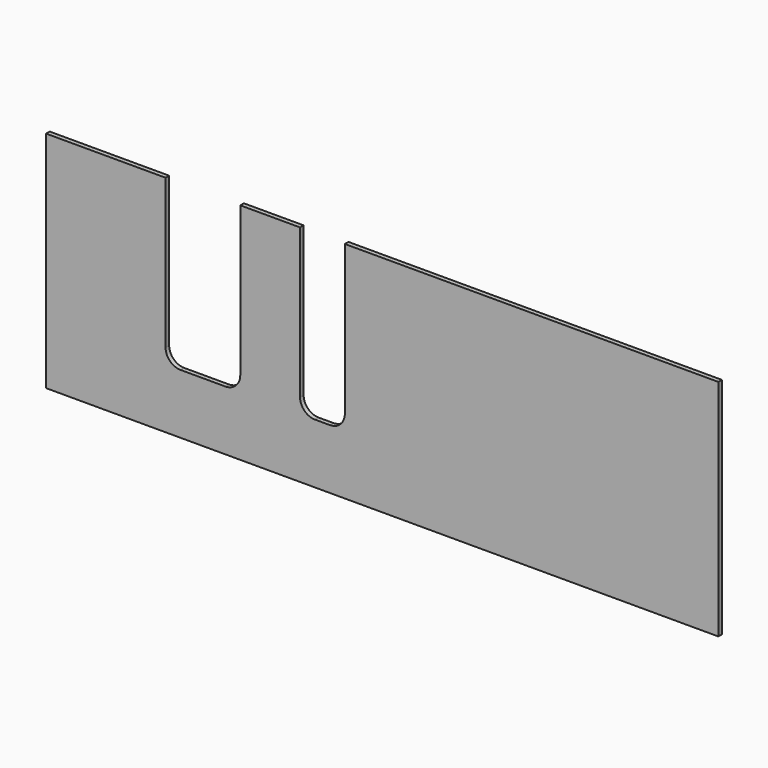
from build123d import *

# Parameters (mm, degrees)
F1_DEPTH = 3
F2_R     = 10


with BuildPart() as f1:
    # F0 (on Front) → F1 (new body)
    with BuildSketch(Plane.XZ):
        Polygon((-225, 75), (-225, -75), (225, -75), (225, 75), (-25, 75), (-25, -35), (-55, -35), (-55, 75), (-95, 75), (-95, -35), (-145, -35), (-145, 75), align=None)
    extrude(amount=F1_DEPTH)

    # F2
    f2_edges = [f1.edges().sort_by_distance(p)[0] for p in [
        (-145, -1.5, -35),
        (-95, -1.5, -35),
        (-25, -1.5, -35),
        (-55, -1.5, -35),
    ]]
    fillet(f2_edges, radius=F2_R)


solid = f1.part
